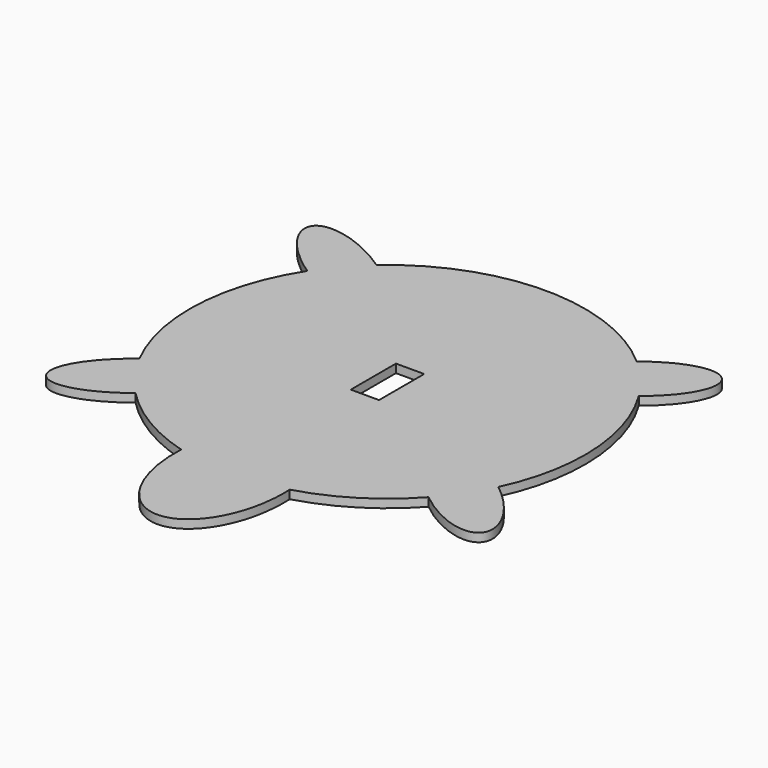
from build123d import *

# Parameters (mm, degrees)
F0_W     = 10
F0_H     = 20
F1_DEPTH = 3


with BuildPart() as f1:
    # F0 (on Top) → F1 (new body)
    with BuildSketch(Plane.XY):
        with BuildLine():
            add(Edge.make_bspline(
                [(-46.0391518575, 52.7294651618), (-67.8101614664, 67.7423418378), (-74.3558205184, 60.1806463757), (-80.9014795704, 52.6189509136), (-58.7826777446, 38.0078517831)],
                knots=[4.633386757, 4.633386757, 4.633386757, 6.2307528408, 6.2307528408, 7.8281189246, 7.8281189246, 7.8281189246], degree=2, weights=[1, 0.6976508328, 1, 0.6976508328, 1]))
            ThreePointArc((-58.7826777446, 38.0078517831), (-69.9136782628, 3.4752829769), (-62.262191037, -31.9909294531))
            add(Edge.make_bspline(
                [(-62.262191037, -31.9909294531), (-82.4038068313, -47.223712019), (-76.1770681531, -55.8929235783), (-69.9503294749, -64.5621351376), (-50.1993071337, -48.7855466639)],
                knots=[4.6615649831, 4.6615649831, 4.6615649831, 6.2637306623, 6.2637306623, 7.8658963415, 7.8658963415, 7.8658963415], degree=2, weights=[1, 0.6959295194, 1, 0.6959295194, 1]))
            ThreePointArc((-50.1993071337, -48.7855466639), (-35.9205044192, -60.0809234472), (-19.2117914208, -67.3120128239))
            add(Edge.make_bspline(
                [(-19.2117914208, -67.3120128239), (-20.9822782655, -101.8556983769), (0, -101.8556983769), (20.9822782655, -101.8556983769), (19.2117914208, -67.3120128239)],
                knots=[1.4863157685, 1.4863157685, 1.4863157685, 3.1415926536, 3.1415926536, 4.7968695387, 4.7968695387, 4.7968695387], degree=2, weights=[1, 0.6766165439, 1, 0.6766165439, 1]))
            ThreePointArc((19.2117914208, -67.3120128239), (37.0539589354, -59.3885858328), (52.0140571456, -46.8458947961))
            ThreePointArc((52.0140571456, -46.8458947961), (58.2433416237, -38.8292822044), (63.2474944967, -29.9959070522))
            ThreePointArc((63.2474944967, -29.9959070522), (69.8938774959, 3.8530362812), (59.5670976046, 36.7663009148))
            add(Edge.make_bspline(
                [(59.5670976046, 36.7663009148), (77.9654601676, 51.0313716272), (71.0735907958, 59.1973269767), (64.1817214241, 67.3632823262), (46.2522308571, 52.5426601985)],
                knots=[4.6933916319, 4.6933916319, 4.6933916319, 6.298210837, 6.298210837, 7.9030300421, 7.9030300421, 7.9030300421], degree=2, weights=[1, 0.6949761454, 1, 0.6949761454, 1]))
            ThreePointArc((46.2522308571, 52.5426601985), (0.1416851742, 69.9998566092), (-46.0391518575, 52.7294651618))
        make_face()
        Rectangle(F0_W, F0_H, mode=Mode.SUBTRACT)
        with BuildLine():
            add(Edge.make_bspline(
                [(52.0140571456, -46.8458947961), (71.2177415421, -62.5366709433), (77.0126162643, -53.8444456703), (82.8074909864, -45.1522203974), (63.2474944967, -29.9959070522)],
                knots=[4.7246242101, 4.7246242101, 4.7246242101, 6.326169109, 6.326169109, 7.9277140079, 7.9277140079, 7.9277140079], degree=2, weights=[1, 0.6961523802, 1, 0.6961523802, 1]))
            ThreePointArc((63.2474944967, -29.9959070522), (58.2433416237, -38.8292822044), (52.0140571456, -46.8458947961))
        make_face()
    extrude(amount=F1_DEPTH)


solid = f1.part
